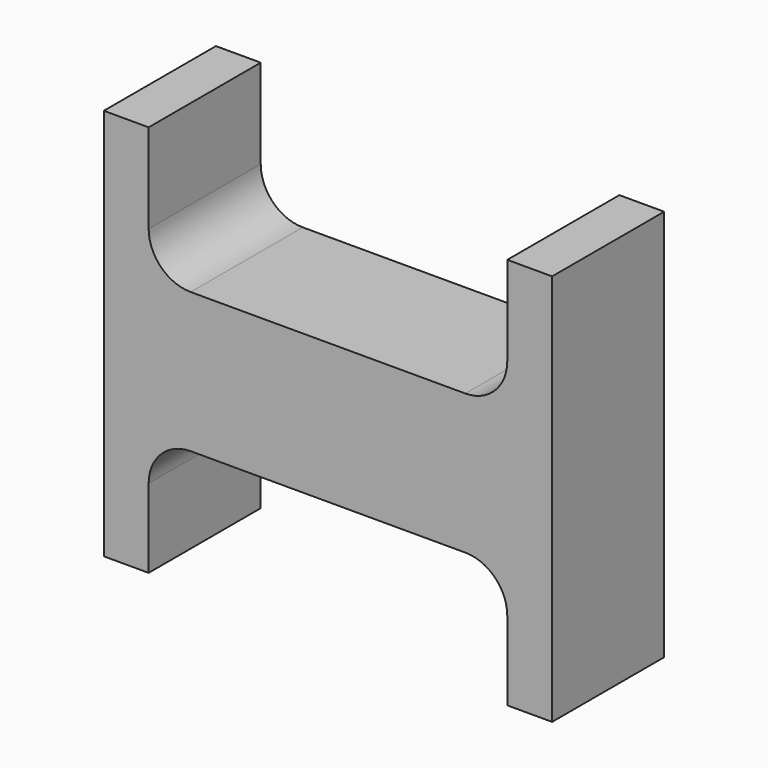
from build123d import *

# Parameters (mm, degrees)
F1_DEPTH = 25


with BuildPart() as f1:
    # F0 (on Front) → F1 (new body)
    with BuildSketch(Plane.XZ):
        with BuildLine():
            Line((-31.33769, 35.93692), (-39.33769, 35.93692))
            Line((-39.33769, 35.93692), (-39.33769, -34.06308))
            Line((-39.33769, -34.06308), (-31.33769, -34.06308))
            Line((-31.33769, -34.06308), (-31.33769, -20))
            ThreePointArc((-31.33769, -20), (-29.140991, -14.696699), (-23.83769, -12.5))
            Line((-23.83769, -12.5), (25.16231, -12.5))
            ThreePointArc((25.16231, -12.5), (30.465611, -14.696699), (32.66231, -20))
            Line((32.66231, -20), (32.66231, -34.06308))
            Line((32.66231, -34.06308), (40.66231, -34.06308))
            Line((40.66231, -34.06308), (40.66231, 35.93692))
            Line((40.66231, 35.93692), (32.66231, 35.93692))
            Line((32.66231, 35.93692), (32.66231, 20))
            ThreePointArc((32.66231, 20), (30.465611, 14.696699), (25.16231, 12.5))
            Line((25.16231, 12.5), (-23.83769, 12.5))
            ThreePointArc((-23.83769, 12.5), (-29.140991, 14.696699), (-31.33769, 20))
            Line((-31.33769, 20), (-31.33769, 35.93692))
        make_face()
    extrude(amount=F1_DEPTH)


solid = f1.part
